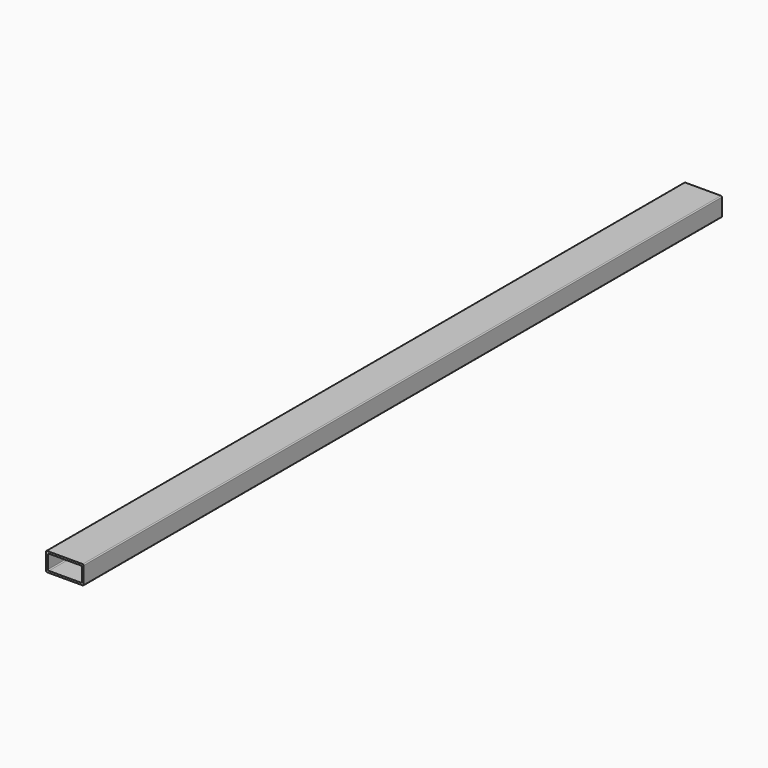
from build123d import *

# Parameters (mm, degrees)
F1_DEPTH = 847.5


with BuildPart() as f1:
    # F0 (on Front) → F1 (new body)
    with BuildSketch(Plane.XZ):
        with BuildLine():
            ThreePointArc((0, 1), (0.292893, 0.292893), (1, 0))
            Line((1, 0), (39, 0))
            ThreePointArc((39, 0), (39.707107, 0.292893), (40, 1))
            Line((40, 1), (40, 19))
            ThreePointArc((40, 19), (39.707107, 19.707107), (39, 20))
            Line((39, 20), (1, 20))
            ThreePointArc((1, 20), (0.292893, 19.707107), (0, 19))
            Line((0, 19), (0, 1))
        make_face()
        with BuildLine():
            Line((37, 2), (3, 2))
            ThreePointArc((3, 2), (2.292893, 2.292893), (2, 3))
            Line((2, 3), (2, 17))
            ThreePointArc((2, 17), (2.292893, 17.707107), (3, 18))
            Line((3, 18), (37, 18))
            ThreePointArc((37, 18), (37.707107, 17.707107), (38, 17))
            Line((38, 17), (38, 3))
            ThreePointArc((38, 3), (37.707107, 2.292893), (37, 2))
        make_face(mode=Mode.SUBTRACT)
    extrude(amount=F1_DEPTH)


solid = f1.part
